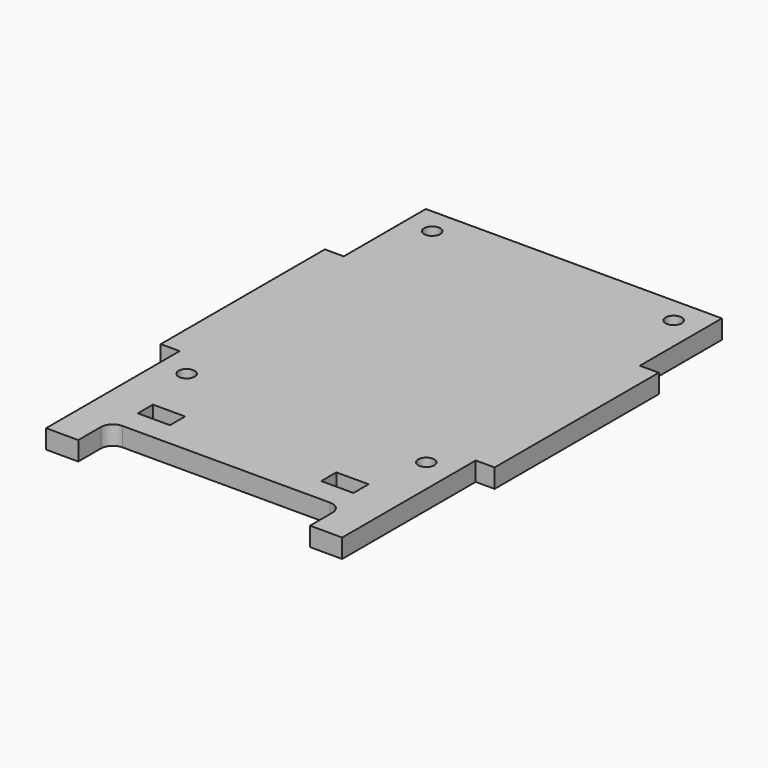
from build123d import *

# Parameters (mm, degrees)
SKETCH015_W              = 8
SKETCH015_H              = 4.7
PAD011_DEPTH             = 4.7
FILLET004_R              = 3
SKETCH018_R              = 2
POCKET_DEPTH             = 4.701
BODY011_PLACEMENT_ANGLE  = 90
CLONE004_PLACEMENT_ANGLE = 90
BODY017_ROLL_ANGLE       = 90
BODY017_PLACEMENT_ANGLE  = 180
CLONE005_ROLL_ANGLE      = 90
CLONE005_PLACEMENT_ANGLE = 180
BODY018_PLACEMENT_ANGLE  = 90


with BuildPart() as part:
    # Sketch015 → Pad011 (new body)
    with BuildSketch(Plane.XZ):
        Polygon((-41.5, -25.5), (-41.5, 25.5), (-36.8, 25.5), (-36.8, 51), (36.8, 51), (36.8, 25.5), (41.5, 25.5), (41.5, -25.5), (36.8, -25.5), (36.8, -51), (36.8, -67), (28.8, -67), (28.8, -57), (-28.8, -57), (-28.8, -67), (-36.8, -67), (-36.8, -51), (-36.8, -25.5), align=None)
        with Locations((-22.8, -48.65)):
            Rectangle(SKETCH015_W, SKETCH015_H, mode=Mode.SUBTRACT)
        with Locations((22.8, -48.65)):
            Rectangle(SKETCH015_W, SKETCH015_H, mode=Mode.SUBTRACT)
    extrude(amount=PAD011_DEPTH)

    # Fillet004
    fillet004_edges = [part.edges().sort_by_distance(p)[0] for p in [
        (28.8, -2.35, -57),
        (-28.8, -2.35, -57),
    ]]
    fillet(fillet004_edges, radius=FILLET004_R)

    # Sketch018 (on Face2 of Fillet004) → Pocket (cut, through all)
    with BuildSketch(Plane(origin=(0, 0, 0), x_dir=(1, 0, 0), z_dir=(0, 1, 0))):
        with Locations((30.02, -44.49)):
            Circle(SKETCH018_R)
        with Locations((-30.02, -44.49)):
            Circle(SKETCH018_R)
        with Locations((29.8, 32.1)):
            Circle(SKETCH018_R)
        with Locations((-29.8, 32.1)):
            Circle(SKETCH018_R)
    extrude(amount=-POCKET_DEPTH, mode=Mode.SUBTRACT)


with BuildPart() as part_1:
    # Body011 placement: moved
    add(part.part.moved(Location((-41.5, 0, 48))).rotate(Axis((-41.5, 0, 48), (0, 0, 1)), BODY011_PLACEMENT_ANGLE))


with BuildPart() as part_2:
    # Clone004 placement: moved
    add(part_1.part.moved(Location((0, -41.5, -48))).rotate(Axis((0, -41.5, -48), (0, 0, -1)), CLONE004_PLACEMENT_ANGLE))


with BuildPart() as part_3:
    # Body017 roll: moved
    add(part_2.part.rotate(Axis((0, 0, 0), (1, 0, 0)), BODY017_ROLL_ANGLE))


with BuildPart() as part_4:
    # Body017 placement: moved
    add(part_3.part.moved(Location((270, 0, 0))).rotate(Axis((270, 0, 0), (0, 0, 1)), BODY017_PLACEMENT_ANGLE))


with BuildPart() as part_5:
    # Clone005 roll: moved
    add(part_4.part.rotate(Axis((0, 0, 0), (1, 0, 0)), CLONE005_ROLL_ANGLE))


with BuildPart() as part_6:
    # Clone005 placement: moved
    add(part_5.part.moved(Location((270, 0, 0))).rotate(Axis((270, 0, 0), (0, 0, 1)), CLONE005_PLACEMENT_ANGLE))


with BuildPart() as part_7:
    # Body018 placement: moved
    add(part_6.part.moved(Location((444, 0, 0))).rotate(Axis((444, 0, 0), (-1, 0, 0)), BODY018_PLACEMENT_ANGLE))


solid = part_7.part
